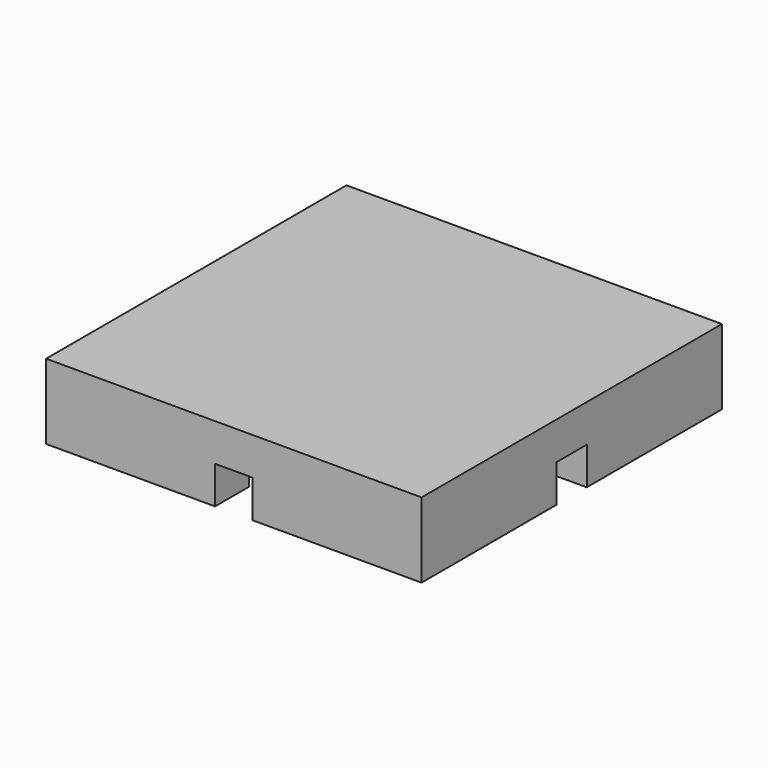
from build123d import *

# Parameters (mm, degrees)
F0_W     = 10
F0_H     = 10
F1_DEPTH = 2
F3_DEPTH = 1


with BuildPart() as f1:
    # F0 (on Top) → F1 (new body)
    with BuildSketch(Plane.XY):
        Rectangle(F0_W, F0_H)
    extrude(amount=F1_DEPTH)

    # F2 (on face) → F3 (cut)
    with BuildSketch(Plane(origin=(0, 0, 0), x_dir=(1, 0, 0), z_dir=(0, 0, -1))):
        with BuildLine():
            ThreePointArc((-0.5, 3.8660254038), (-0.5, 2.1339745962), (1, 3))
            ThreePointArc((1, 3), (0.8660254038, 3.5), (0.5, 3.8660254038))
            Line((0.5, 3.8660254038), (0.5, 3))
            Line((0.5, 3), (-0.5, 3))
            Line((-0.5, 3), (-0.5, 3.8660254038))
        make_face()
        with BuildLine():
            Line((0.5, 3), (0.5, 3.8660254038))
            ThreePointArc((0.5, 3.8660254038), (0, 4), (-0.5, 3.8660254038))
            Line((-0.5, 3.8660254038), (-0.5, 3))
            Line((-0.5, 3), (0.5, 3))
        make_face()
        with BuildLine():
            ThreePointArc((-0.5, 3.8660254038), (0, 4), (0.5, 3.8660254038))
            Line((0.5, 3.8660254038), (0.5, 5))
            Line((0.5, 5), (-0.5, 5))
            Line((-0.5, 5), (-0.5, 3.8660254038))
        make_face()
        with BuildLine():
            ThreePointArc((3.8660254038, -0.5), (3.9659258263, -0.2588190451), (4, 0))
            ThreePointArc((4, 0), (3.9659258263, 0.2588190451), (3.8660254038, 0.5))
            Line((3.8660254038, 0.5), (3, 0.5))
            Line((3, 0.5), (3, -0.5))
            Line((3, -0.5), (3.8660254038, -0.5))
        make_face()
        with BuildLine():
            ThreePointArc((3.8660254038, 0.5), (3.9659258263, 0.2588190451), (4, 0))
            ThreePointArc((4, 0), (3.9659258263, -0.2588190451), (3.8660254038, -0.5))
            Line((3.8660254038, -0.5), (5, -0.5))
            Line((5, -0.5), (5, 0.5))
            Line((5, 0.5), (3.8660254038, 0.5))
        make_face()
        with BuildLine():
            Line((3, 0.5), (3.8660254038, 0.5))
            ThreePointArc((3.8660254038, 0.5), (2, 0), (3.8660254038, -0.5))
            Line((3.8660254038, -0.5), (3, -0.5))
            Line((3, -0.5), (3, 0.5))
        make_face()
        with BuildLine():
            ThreePointArc((0.5, -3.8660254038), (0.8660254038, -3.5), (1, -3))
            ThreePointArc((1, -3), (-0.5, -2.1339745962), (-0.5, -3.8660254038))
            Line((-0.5, -3.8660254038), (-0.5, -3))
            Line((-0.5, -3), (0.5, -3))
            Line((0.5, -3), (0.5, -3.8660254038))
        make_face()
        with BuildLine():
            Line((-0.5, -3), (-0.5, -3.8660254038))
            ThreePointArc((-0.5, -3.8660254038), (0, -4), (0.5, -3.8660254038))
            Line((0.5, -3.8660254038), (0.5, -3))
            Line((0.5, -3), (-0.5, -3))
        make_face()
        with BuildLine():
            ThreePointArc((0.5, -3.8660254038), (0, -4), (-0.5, -3.8660254038))
            Line((-0.5, -3.8660254038), (-0.5, -5))
            Line((-0.5, -5), (0.5, -5))
            Line((0.5, -5), (0.5, -3.8660254038))
        make_face()
        with BuildLine():
            ThreePointArc((-3.8660254038, -0.5), (-2.7411809549, -0.9659258263), (-2, 0))
            ThreePointArc((-2, 0), (-2.7411809549, 0.9659258263), (-3.8660254038, 0.5))
            Line((-3.8660254038, 0.5), (-3, 0.5))
            Line((-3, 0.5), (-3, -0.5))
            Line((-3, -0.5), (-3.8660254038, -0.5))
        make_face()
        with BuildLine():
            Line((-3, 0.5), (-3.8660254038, 0.5))
            ThreePointArc((-3.8660254038, 0.5), (-4, 0), (-3.8660254038, -0.5))
            Line((-3.8660254038, -0.5), (-3, -0.5))
            Line((-3, -0.5), (-3, 0.5))
        make_face()
        with BuildLine():
            ThreePointArc((-3.8660254038, -0.5), (-4, 0), (-3.8660254038, 0.5))
            Line((-3.8660254038, 0.5), (-5, 0.5))
            Line((-5, 0.5), (-5, -0.5))
            Line((-5, -0.5), (-3.8660254038, -0.5))
        make_face()
    extrude(amount=-F3_DEPTH, mode=Mode.SUBTRACT)


solid = f1.part
